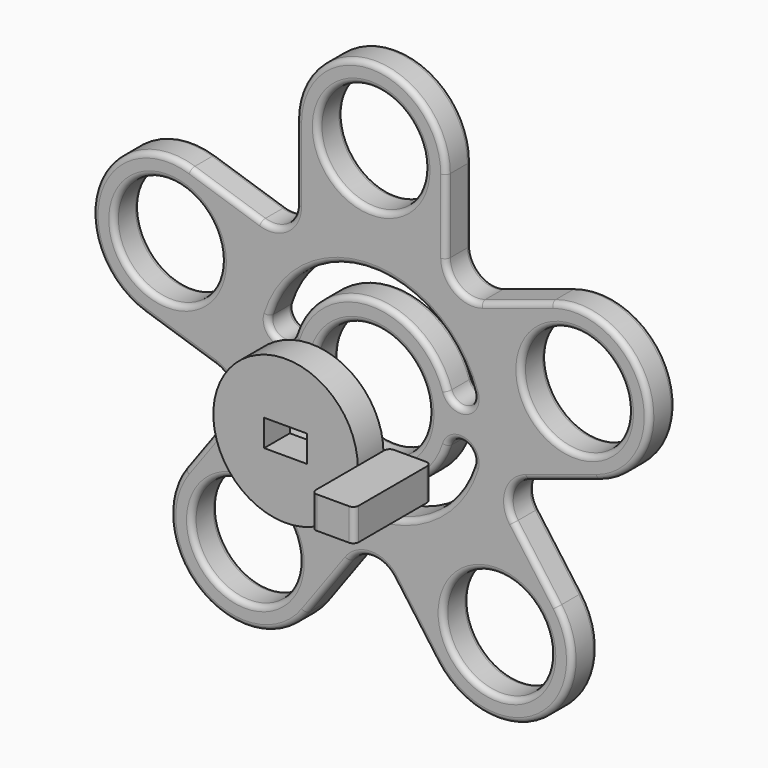
from build123d import *

# Parameters (mm, degrees)
F0_R     = 10
F0_R_2   = 10.75
F1_DEPTH = 6
F2_R     = 1
F4_DEPTH = 6
F6_START = 20
F5_R     = 13.5
F5_W     = 8
F5_H     = 5
F6_DEPTH = 6


with BuildPart() as f1:
    # F0 (on Front) → F1 (new body)
    with BuildSketch(Plane.XZ):
        with BuildLine():
            Line((14, 26.151256489), (14, 40))
            ThreePointArc((14, 40), (0, 54), (-14, 40))
            Line((-14, 40), (-14, 26.151256489))
            ThreePointArc((-14, 26.151256489), (-16.0610737385, 22.1061715171), (-20.5450849719, 21.3959739075))
            Line((-20.5450849719, 21.3959739075), (-33.7160227306, 25.6754710031))
            ThreePointArc((-33.7160227306, 25.6754710031), (-51.3570518799, 16.6869176962), (-42.3684985731, -0.9541114531))
            Line((-42.3684985731, -0.9541114531), (-29.1975608144, -5.2336085488))
            ThreePointArc((-29.1975608144, -5.2336085488), (-25.9873632048, -8.4438061584), (-26.6975608144, -12.9278173917))
            Line((-26.6975608144, -12.9278173917), (-34.8376480129, -24.1316862429))
            ThreePointArc((-34.8376480129, -24.1316862429), (-31.7404036238, -43.6869176962), (-12.1851721704, -40.5896733071))
            Line((-12.1851721704, -40.5896733071), (-4.0450849719, -29.3858044559))
            ThreePointArc((-4.0450849719, -29.3858044559), (0, -27.3247307174), (4.0450849719, -29.3858044559))
            Line((4.0450849719, -29.3858044559), (12.1851721704, -40.5896733071))
            ThreePointArc((12.1851721704, -40.5896733071), (31.7404036238, -43.6869176962), (34.8376480129, -24.1316862429))
            Line((34.8376480129, -24.1316862429), (26.6975608144, -12.9278173917))
            ThreePointArc((26.6975608144, -12.9278173917), (25.9873632048, -8.4438061584), (29.1975608144, -5.2336085488))
            Line((29.1975608144, -5.2336085488), (42.3684985731, -0.9541114531))
            ThreePointArc((42.3684985731, -0.9541114531), (51.3570518799, 16.6869176962), (33.7160227306, 25.6754710031))
            Line((33.7160227306, 25.6754710031), (20.5450849719, 21.3959739075))
            ThreePointArc((20.5450849719, 21.3959739075), (16.0610737385, 22.1061715171), (14, 26.151256489))
        make_face()
        with Locations((-23.5114100917, -32.360679775)):
            Circle(F0_R, mode=Mode.SUBTRACT)
        with Locations((23.5114100917, -32.360679775)):
            Circle(F0_R, mode=Mode.SUBTRACT)
        with BuildLine():
            ThreePointArc((19.0645475513, -6.0450828501), (0, -20), (-19.0645475513, -6.0450828501))
            ThreePointArc((-19.0645475513, -6.0450828501), (-17.4371144636, -2.9063790499), (-14.2984106635, -4.5338121376))
            ThreePointArc((-14.2984106635, -4.5338121376), (0, -15), (14.2984106635, -4.5338121376))
            ThreePointArc((14.2984106635, -4.5338121376), (17.4371144636, -2.9063790499), (19.0645475513, -6.0450828501))
        make_face(mode=Mode.SUBTRACT)
        Circle(F0_R_2, mode=Mode.SUBTRACT)
        with Locations((-38.0422606518, 12.360679775)):
            Circle(F0_R, mode=Mode.SUBTRACT)
        with BuildLine():
            ThreePointArc((-19.0645475513, 6.0450828501), (0, 20), (19.0645475513, 6.0450828501))
            ThreePointArc((19.0645475513, 6.0450828501), (17.4371144636, 2.9063790499), (14.2984106635, 4.5338121376))
            ThreePointArc((14.2984106635, 4.5338121376), (0, 15), (-14.2984106635, 4.5338121376))
            ThreePointArc((-14.2984106635, 4.5338121376), (-17.4371144636, 2.9063790499), (-19.0645475513, 6.0450828501))
        make_face(mode=Mode.SUBTRACT)
        with Locations((38.0422606518, 12.360679775)):
            Circle(F0_R, mode=Mode.SUBTRACT)
        with Locations((0, 40)):
            Circle(F0_R, mode=Mode.SUBTRACT)
    extrude(amount=F1_DEPTH)

    # F2
    f2_edges = [f1.edges().sort_by_distance(p)[0] for p in [
        (31.740404, -6, -43.686918),
        (30.767604, -6, -18.529752),
        (25.987363, -6, -8.443806),
        (35.78303, -6, -3.09386),
        (51.357052, -6, 16.686918),
        (27.130554, -6, 23.535722),
        (16.061074, -6, 22.106172),
        (14, -6, 33.075628),
        (0, -6, 54),
        (-14, -6, 33.075628),
        (-16.061074, -6, 22.106172),
        (-27.130554, -6, 23.535722),
        (-51.357052, -6, 16.686918),
        (-35.78303, -6, -3.09386),
        (-25.987363, -6, -8.443806),
        (-30.767604, -6, -18.529752),
        (-31.740404, -6, -43.686918),
        (-8.115129, -6, -34.987739),
        (0, -6, -27.324731),
        (8.115129, -6, -34.987739),
        (-33.51141, -6, -32.36068),
        (13.51141, -6, -32.36068),
        (17.437114, -6, -2.906379),
        (0, -6, -20),
        (-17.437114, -6, -2.906379),
        (0, -6, -15),
        (-10.75, -6, 0),
        (-48.042261, -6, 12.36068),
        (17.437114, -6, 2.906379),
        (0, -6, 15),
        (-17.437114, -6, 2.906379),
        (0, -6, 20),
        (28.042261, -6, 12.36068),
        (-10, -6, 40),
        (31.740404, 0, -43.686918),
        (30.767604, 0, -18.529752),
        (25.987363, 0, -8.443806),
        (35.78303, 0, -3.09386),
        (51.357052, 0, 16.686918),
        (27.130554, 0, 23.535722),
        (16.061074, 0, 22.106172),
        (14, 0, 33.075628),
        (0, 0, 54),
        (-14, 0, 33.075628),
        (-16.061074, 0, 22.106172),
        (-27.130554, 0, 23.535722),
        (-51.357052, 0, 16.686918),
        (-35.78303, 0, -3.09386),
        (-25.987363, 0, -8.443806),
        (-30.767604, 0, -18.529752),
        (-31.740404, 0, -43.686918),
        (-8.115129, 0, -34.987739),
        (0, 0, -27.324731),
        (8.115129, 0, -34.987739),
        (-33.51141, 0, -32.36068),
        (13.51141, 0, -32.36068),
        (17.437114, 0, -2.906379),
        (0, 0, -20),
        (-17.437114, 0, -2.906379),
        (0, 0, -15),
        (-10.75, 0, 0),
        (-48.042261, 0, 12.36068),
        (17.437114, 0, 2.906379),
        (0, 0, 15),
        (-17.437114, 0, 2.906379),
        (0, 0, 20),
        (28.042261, 0, 12.36068),
        (-10, 0, 40),
    ]]
    fillet(f2_edges, radius=F2_R)


with BuildPart() as f4:
    # F3 (on Top) → F4 (new body)
    with BuildSketch(Plane.XY):
        with BuildLine():
            Line((27.347636193, -27.3550294042), (21.347636193, -27.3550294042))
            ThreePointArc((21.347636193, -27.3550294042), (20.6405294119, -27.647922623), (20.347636193, -28.3550294042))
            Line((20.347636193, -28.3550294042), (20.347636193, -44.3550294042))
            ThreePointArc((20.347636193, -44.3550294042), (20.6405294119, -45.0621361853), (21.347636193, -45.3550294042))
            Line((21.347636193, -45.3550294042), (27.347636193, -45.3550294042))
            ThreePointArc((27.347636193, -45.3550294042), (28.0547429742, -45.0621361853), (28.347636193, -44.3550294042))
            Line((28.347636193, -44.3550294042), (28.347636193, -28.3550294042))
            ThreePointArc((28.347636193, -28.3550294042), (28.0547429742, -27.647922623), (27.347636193, -27.3550294042))
        make_face()
    extrude(amount=F4_DEPTH)


with BuildPart() as f6:
    # F5 (on Front) → F6 (new body)
    with BuildSketch(Plane.XZ.offset(F6_START)):
        Circle(F5_R)
        Rectangle(F5_W, F5_H, mode=Mode.SUBTRACT)
    extrude(amount=F6_DEPTH)


solid = Compound([f1.part, f4.part, f6.part])
